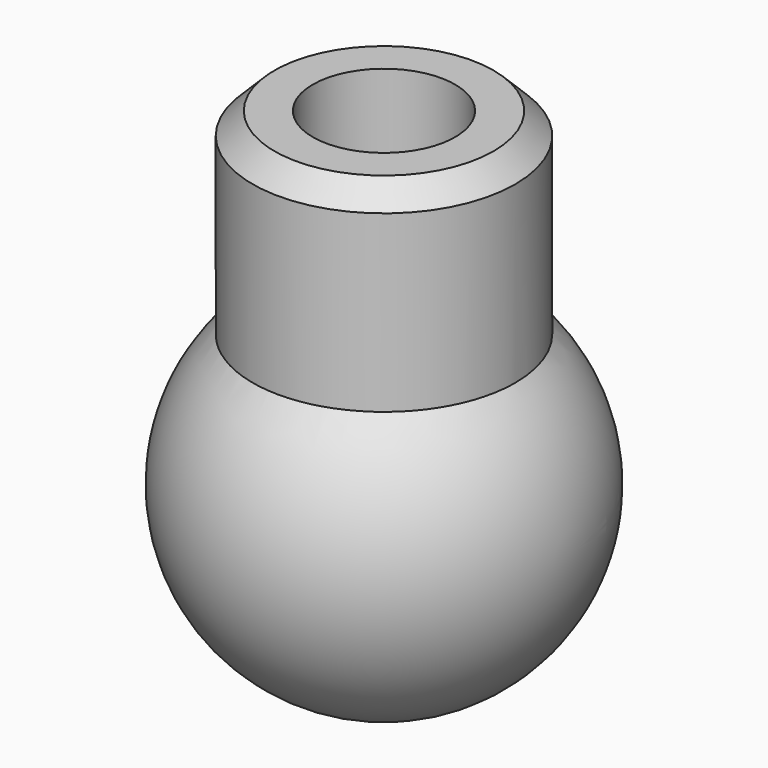
from build123d import *

# Parameters (mm, degrees)
F0_R     = 6
F1_DEPTH = 15
F5_D     = 6.5
F5_DEPTH = 15
F5_TIP   = 1.9527970118
F6_SIZE  = 1


with BuildPart() as f1:
    # F0 (on Top) → F1 (new body)
    with BuildSketch(Plane.XY):
        Circle(F0_R)
    extrude(amount=F1_DEPTH)

    # F2 (on Top) → F3 (revolve)
    with BuildSketch(Plane.XY):
        with BuildLine():
            Line((-8.5, 0), (8.5, 0))
            ThreePointArc((8.5, 0), (0, 8.5), (-8.5, 0))
        make_face()
    revolve(axis=Axis((0, 0, 0), (1, 0, 0)))

    # F5
    with Locations(Plane.XY.offset(15)):
        with Locations((0, 0)):
            Hole(F5_D / 2, depth=F5_DEPTH)
            with Locations((0, 0, -(F5_DEPTH + F5_TIP / 2))):  # 118° drill point
                Cone(0, F5_D / 2, F5_TIP, mode=Mode.SUBTRACT)

    # F6
    f6_edges = [f1.edges().sort_by_distance(p)[0] for p in [
        (-6, 0, 15),
    ]]
    chamfer(f6_edges, length=F6_SIZE)


solid = f1.part
